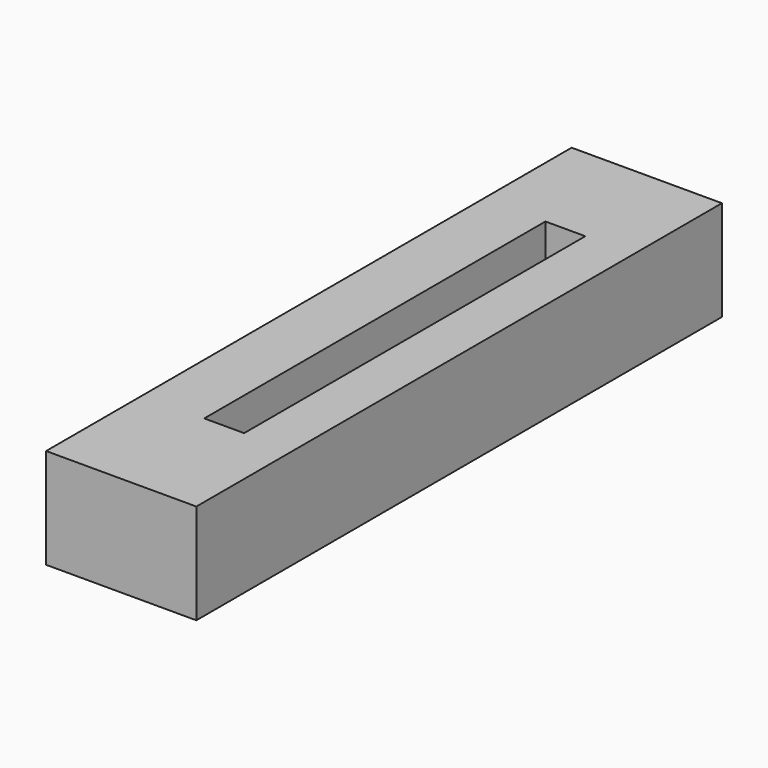
from build123d import *

# Parameters (mm, degrees)
SKETCH024_W     = 15
SKETCH024_H     = 65.573825
PAD013_DEPTH    = 10
SKETCH025_W     = 3.980878
SKETCH025_H     = 42.568468
POCKET007_DEPTH = 10.001


with BuildPart() as pocket007:
    # Sketch024 → Pad013 (new body)
    with BuildSketch(Plane(origin=(65, 0, 9), x_dir=(1, 0, 0), z_dir=(0, 0, 1))):
        with Locations((-27.5, 42.000197)):
            Rectangle(SKETCH024_W, SKETCH024_H)
    extrude(amount=PAD013_DEPTH)

    # Sketch025 → Pocket007 (cut, through all)
    with BuildSketch(Plane(origin=(65, 0, 19), x_dir=(1, 0, 0), z_dir=(0, 0, 1))):
        with Locations((-26.822156, 41.502875)):
            Rectangle(SKETCH025_W, SKETCH025_H)
    extrude(amount=-POCKET007_DEPTH, mode=Mode.SUBTRACT)


with BuildPart() as part_mirroring001:
    # Part__Mirroring001: instance of Pocket007
    add(pocket007.part.mirror(Plane(origin=(0, 0, 0), x_dir=(1, 0, 0), z_dir=(0, 1, 0))))


solid = part_mirroring001.part
